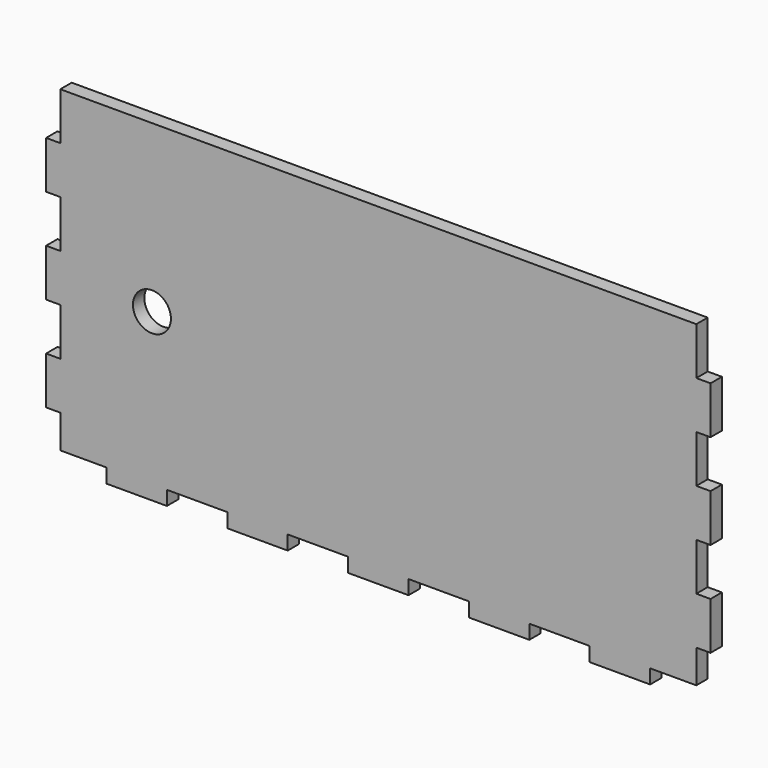
from build123d import *

# Parameters (mm, degrees)
F0_R     = 4
F1_DEPTH = 3


with BuildPart() as f1:
    # F0 (on Front) → F1 (new body)
    with BuildSketch(Plane.XZ):
        Polygon((67, 25), (67, 35), (-67, 35), (-67, 25), (-70, 25), (-70, 15), (-67, 15), (-67, 5), (-70, 5), (-70, -5), (-67, -5), (-67, -15), (-70, -15), (-70, -25), (-67, -25), (-67, -32), (-57.272727, -32), (-57.272727, -35), (-44.545455, -35), (-44.545455, -32), (-31.818182, -32), (-31.818182, -35), (-19.090909, -35), (-19.090909, -32), (-6.363636, -32), (-6.363636, -35), (6.363636, -35), (6.363636, -32), (19.090909, -32), (19.090909, -35), (31.818182, -35), (31.818182, -32), (44.545455, -32), (44.545455, -35), (57.272727, -35), (57.272727, -32), (67, -32), (67, -25), (70, -25), (70, -15), (67, -15), (67, -5), (70, -5), (70, 5), (67, 5), (67, 15), (70, 15), (70, 25), align=None)
        with Locations((-47.694895, 0)):
            Circle(F0_R, mode=Mode.SUBTRACT)
    extrude(amount=F1_DEPTH)


solid = f1.part
